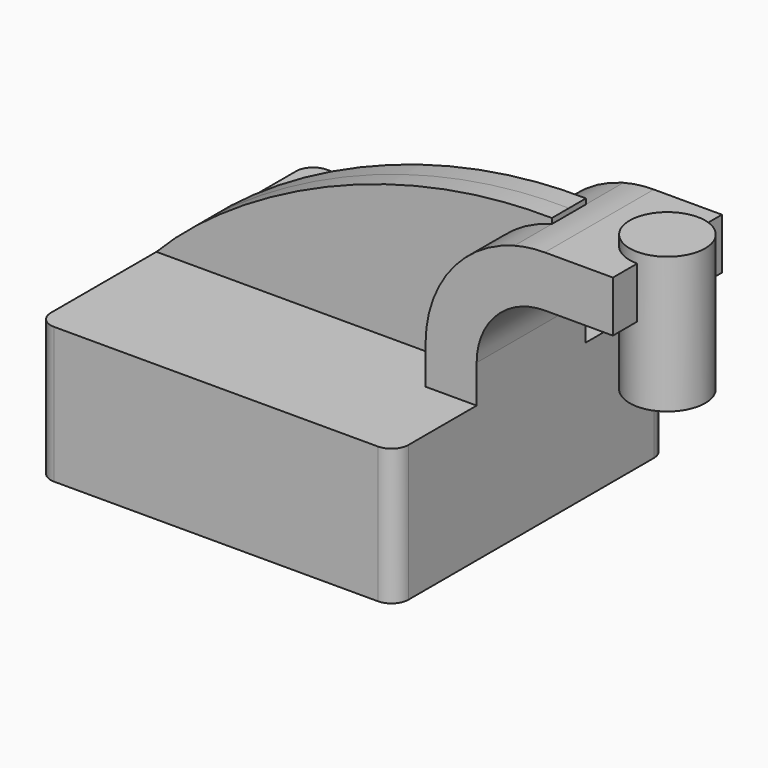
from build123d import *

# Parameters (mm, degrees)
F1_DEPTH = 63.5
F2_DEPTH = 25.4
F3_DEPTH = 7.9375
F5_R     = 6.35


with BuildPart() as f1:
    # F0 (on Front) → F1 (new body, symmetric)
    with BuildSketch(Plane.XZ):
        Polygon((-66.675, 25.4), (-66.675, -25.4), (66.675, -25.4), (66.675, 25.4), (47.625, 25.4), align=None)
    extrude(amount=F1_DEPTH, both=True)

    # F0 (on Front) → F2 (join, symmetric)
    with BuildSketch(Plane.XZ):
        with BuildLine():
            Line((47.625, 25.4), (66.675, 25.4))
            Line((66.675, 25.4), (66.675, 39.48301))
            ThreePointArc((66.675, 39.48301), (70.480936, 52.85673), (80.75818, 62.222614))
            Line((80.75818, 62.222614), (80.75818, 82.468264))
            ThreePointArc((80.75818, 82.468264), (56.869637, 66.619423), (47.625, 39.48301))
            Line((47.625, 39.48301), (47.625, 25.4))
        make_face()
        with BuildLine():
            ThreePointArc((92.075, 83.93301), (86.369391, 83.565303), (80.75818, 82.468264))
            Line((80.75818, 82.468264), (80.75818, 62.222614))
            ThreePointArc((80.75818, 62.222614), (86.262339, 64.208967), (92.075, 64.88301))
            Line((92.075, 64.88301), (117.475, 64.88301))
            Line((117.475, 64.88301), (117.475, 83.93301))
            Line((117.475, 83.93301), (92.075, 83.93301))
        make_face()
    extrude(amount=F2_DEPTH, both=True)

    # F0 (on Front) → F3 (join, symmetric)
    with BuildSketch(Plane.XZ):
        with BuildLine():
            add(Edge.make_bspline(
                [(-66.675, 25.4), (-39.794628, 53.528536), (16.976637, 85.362046), (80.75818, 84.44223)],
                knots=[0, 0, 0, 0, 159.802658, 159.802658, 159.802658, 159.802658], degree=3))
            Line((-66.675, 25.4), (47.625, 25.4))
            Line((47.625, 25.4), (47.625, 39.48301))
            ThreePointArc((47.625, 39.48301), (56.869637, 66.619423), (80.75818, 82.468264))
            Line((80.75818, 82.468264), (80.75818, 84.44223))
        make_face()
    extrude(amount=F3_DEPTH, both=True)

    # F0 (on Front) → F4 (revolve)
    with BuildSketch(Plane.XZ):
        Polygon((131.55818, 87.768322), (117.475, 87.768322), (117.475, 83.93301), (117.475, 64.88301), (117.475, 36.968322), (131.55818, 36.968322), align=None)
    revolve(axis=Axis((117.475, 0, 62.368322), (0, 0, 1)))

    # F5
    f5_edges = [f1.edges().sort_by_distance(p)[0] for p in [
        (-66.675, -63.5, 0),
        (66.675, -63.5, 0),
        (66.675, 63.5, 0),
        (-66.675, 63.5, 0),
    ]]
    fillet(f5_edges, radius=F5_R)


solid = f1.part
